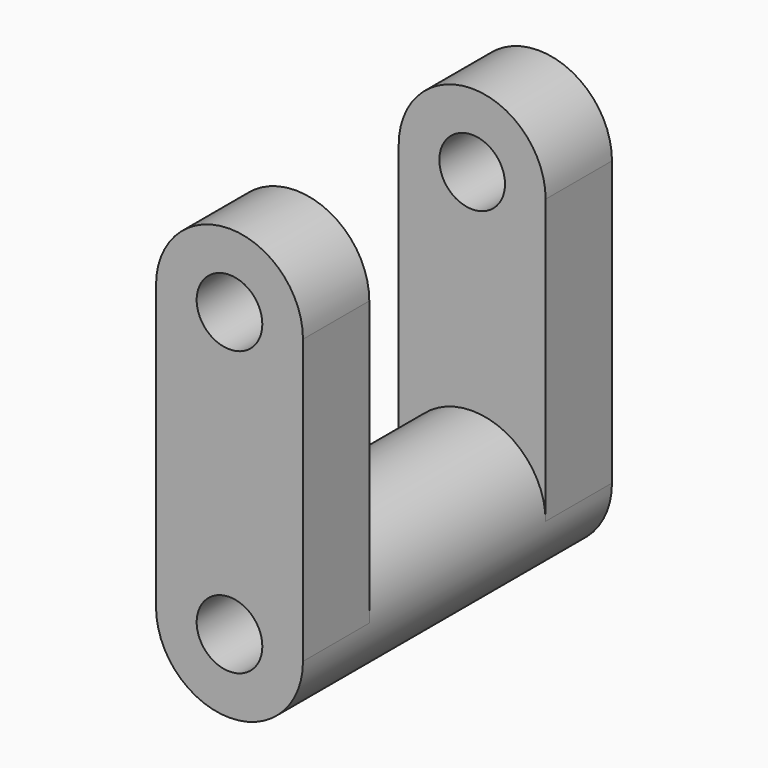
from build123d import *

# Parameters (mm, degrees)
F0_R     = 7.943812
F1_DEPTH = 20.066
F2_DEPTH = 46.736


with BuildPart() as f1:
    # F0 (on Front) → F1 (new body)
    with BuildSketch(Plane.XZ):
        with BuildLine():
            Line((17.78, -34.318883), (17.78, 34.318883))
            ThreePointArc((17.78, 34.318883), (0, 52.098883), (-17.78, 34.318883))
            Line((-17.78, 34.318883), (-17.78, -34.318883))
            ThreePointArc((-17.78, -34.318883), (0, -16.538883), (17.78, -34.318883))
        make_face()
        with Locations((0, 34.318883)):
            Circle(F0_R, mode=Mode.SUBTRACT)
        with BuildLine():
            ThreePointArc((-17.78, -34.318883), (0, -52.098883), (17.78, -34.318883))
            ThreePointArc((17.78, -34.318883), (0, -16.538883), (-17.78, -34.318883))
        make_face()
        with Locations((0, -34.318883)):
            Circle(F0_R, mode=Mode.SUBTRACT)
    extrude(amount=F1_DEPTH)

    # F0 (on Front) → F2 (join)
    with BuildSketch(Plane.XZ):
        with BuildLine():
            ThreePointArc((-17.78, -34.318883), (0, -52.098883), (17.78, -34.318883))
            ThreePointArc((17.78, -34.318883), (0, -16.538883), (-17.78, -34.318883))
        make_face()
        with Locations((0, -34.318883)):
            Circle(F0_R, mode=Mode.SUBTRACT)
    extrude(amount=F2_DEPTH)

    # F4: F1 across plane


with BuildPart() as f1_1:
    add(f1.part)
    add(f1.part.mirror(Plane(origin=(0, -46.736, -34.318883), x_dir=(1, 0, 0), z_dir=(0, -1, 0))))


solid = f1_1.part
